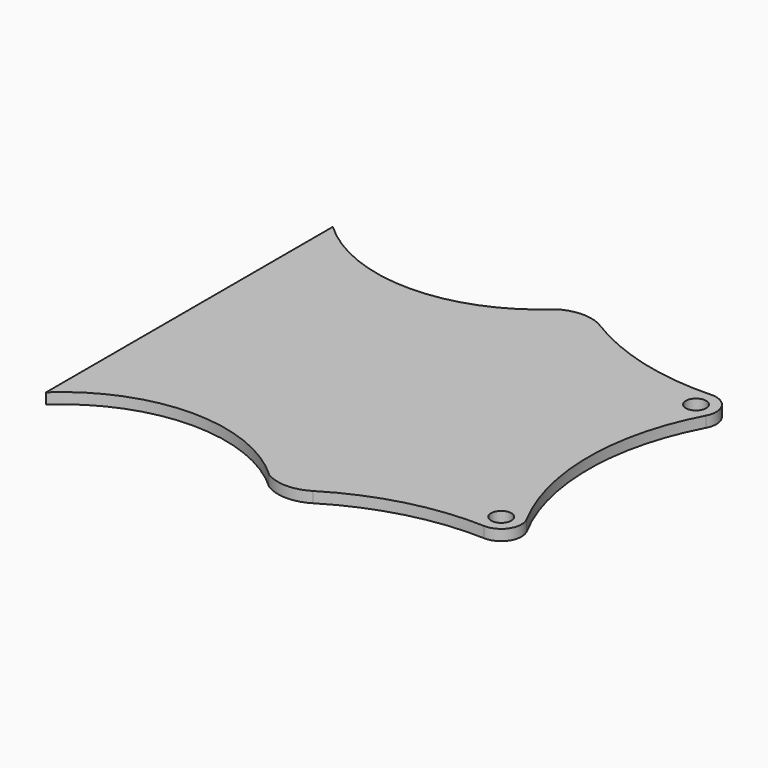
from build123d import *

# Parameters (mm, degrees)
SKETCH_R  = 1.5
PAD_DEPTH = 1.6


with BuildPart() as part:
    # Sketch → Pad (new body)
    with BuildSketch(Plane.XY):
        with BuildLine():
            ThreePointArc((59, 0), (42.5, 6.5), (26, 0))
            Line((26, 0), (26, 53))
            ThreePointArc((26, 53), (42.5, 46.5), (59, 53))
            ThreePointArc((65.5, 53), (62.25, 53.921337), (59, 53))
            ThreePointArc((65.5, 53), (75.535332, 48.697616), (86.38794, 47.497906))
            ThreePointArc((89.147059, 43.088235), (89.043198, 46.091272), (86.38794, 47.497906))
            ThreePointArc((89.147059, 43.088235), (85, 26.5), (89.147059, 9.911765))
            ThreePointArc((86.38794, 5.502094), (89.043198, 6.908728), (89.147059, 9.911765))
            ThreePointArc((86.38794, 5.502094), (75.535332, 4.302384), (65.5, 0))
            ThreePointArc((59, 0), (62.25, -0.921337), (65.5, 0))
        make_face()
        with Locations((86.5, 44.5)):
            Circle(SKETCH_R, mode=Mode.SUBTRACT)
        with Locations((86.5, 8.5)):
            Circle(SKETCH_R, mode=Mode.SUBTRACT)
    extrude(amount=PAD_DEPTH)


solid = part.part
